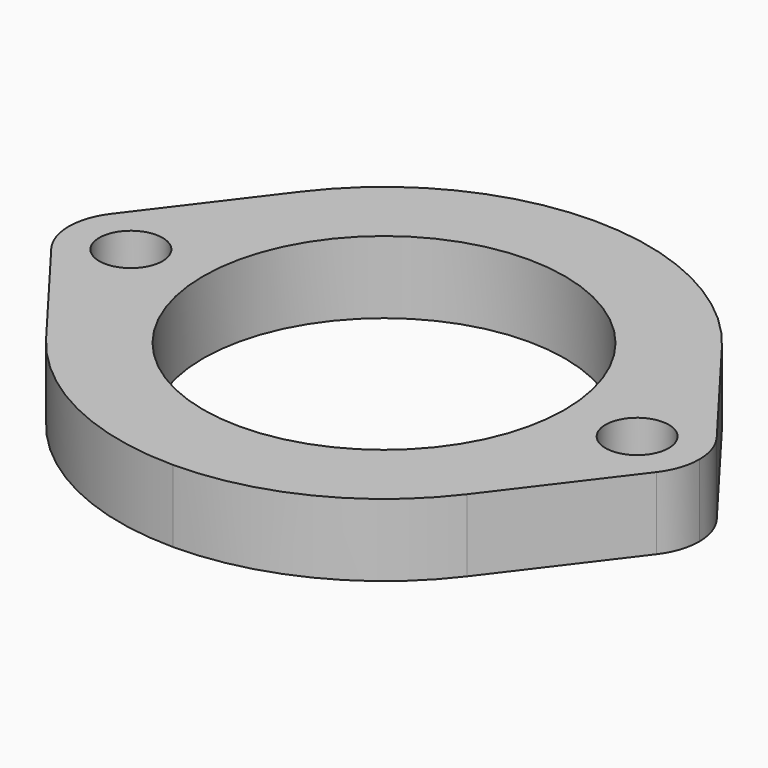
from build123d import *

# Parameters (mm, degrees)
F0_R     = 5.55625
F1_DEPTH = 12.7


with BuildPart() as f1:
    # F0 (on Top) → F1 (new body)
    with BuildSketch(Plane.XY):
        with BuildLine():
            ThreePointArc((36.951557, 27.98872), (20.632122, 41.510259), (0, 46.355))
            ThreePointArc((0, 46.355), (-20.632122, 41.510259), (-36.951557, 27.98872))
            Line((-36.951557, 27.98872), (-53.156394, 6.594603))
            ThreePointArc((-53.156394, 6.594603), (-54.803292, 3.478422), (-55.372, 0))
            ThreePointArc((-55.372, 0), (-54.803292, -3.478422), (-53.156394, -6.594603))
            Line((-53.156394, -6.594603), (-36.951557, -27.98872))
            ThreePointArc((-36.951557, -27.98872), (-20.632122, -41.510259), (0, -46.355))
            ThreePointArc((0, -46.355), (20.632122, -41.510259), (36.951557, -27.98872))
            Line((36.951557, -27.98872), (53.156394, -6.594603))
            ThreePointArc((53.156394, -6.594603), (54.803292, -3.478422), (55.372, 0))
            ThreePointArc((55.372, 0), (54.803292, 3.478422), (53.156394, 6.594603))
            Line((53.156394, 6.594603), (36.951557, 27.98872))
        make_face()
        with Locations((-44.45, 0)):
            Circle(F0_R, mode=Mode.SUBTRACT)
        with BuildLine():
            ThreePointArc((-31.75, 0), (0, 31.75), (31.75, 0))
            ThreePointArc((31.75, 0), (0, -31.75), (-31.75, 0))
        make_face(mode=Mode.SUBTRACT)
        with Locations((44.45, 0)):
            Circle(F0_R, mode=Mode.SUBTRACT)
    extrude(amount=F1_DEPTH)


solid = f1.part
